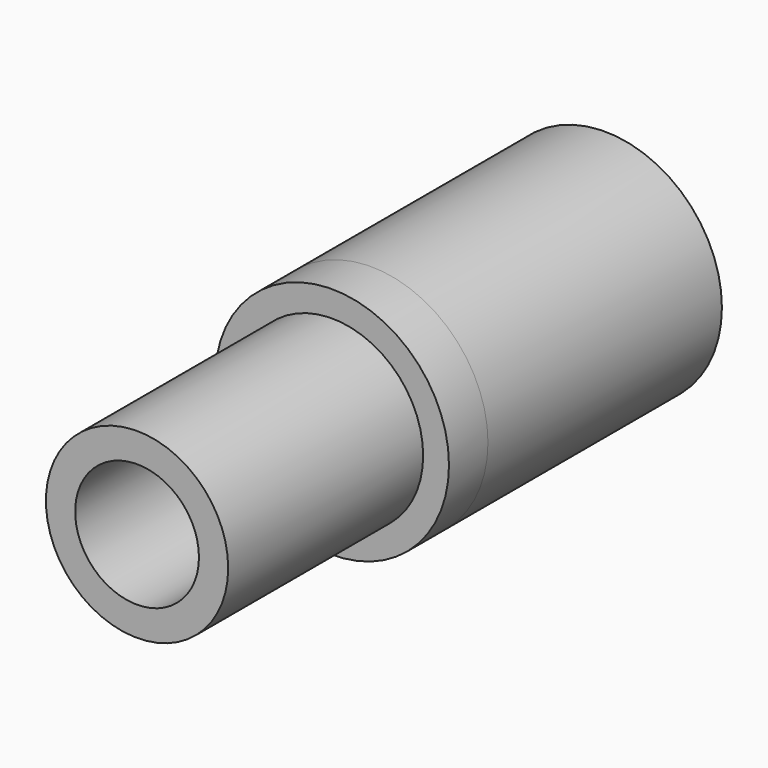
from build123d import *

# Parameters (mm, degrees)
F0_R          = 4.675
F0_R_2        = 3.175
F1_DEPTH      = 15
F1_DEPTH_BACK = 2.5
F2_R          = 6
F2_R_2        = 4.5
F3_DEPTH      = 15
F3_DEPTH_BACK = 2.5


with BuildPart() as f1:
    # F0 (on Front) → F1 (new body, two sides)
    with BuildSketch(Plane.XZ) as f1_sk:
        Circle(F0_R)
        Circle(F0_R_2, mode=Mode.SUBTRACT)
    extrude(amount=F1_DEPTH)
    extrude(f1_sk.sketch, amount=-F1_DEPTH_BACK)

    # F2 (on Front) → F3 (join, two sides)
    with BuildSketch(Plane.XZ) as f3_sk:
        Circle(F2_R)
        Circle(F2_R_2, mode=Mode.SUBTRACT)
    extrude(amount=-F3_DEPTH)
    extrude(f3_sk.sketch, amount=F3_DEPTH_BACK)


solid = f1.part
